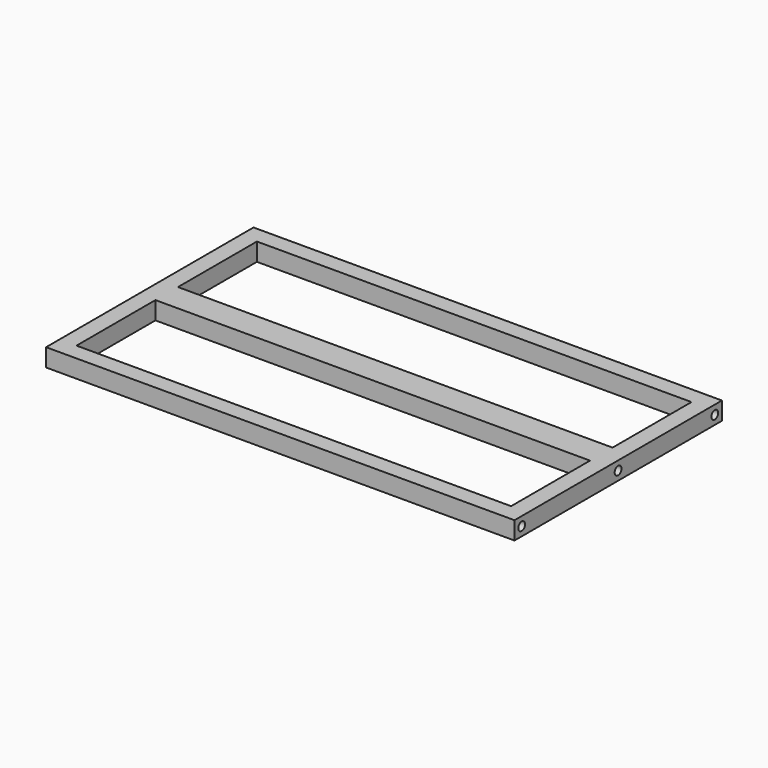
from build123d import *

# Parameters (mm, degrees)
F0_W     = 6
F0_H     = 6
F0_W_2   = 154.2
F0_H_2   = 10
F0_H_3   = 35
F1_DEPTH = 6.35
F3_D     = 3
F3_DEPTH = 10
F3_TIP   = 0.9012909285
F5_D     = 3
F5_DEPTH = 10
F5_TIP   = 0.9012909285


with BuildPart() as f1:
    # F0 (on Top) → F1 (new body)
    with BuildSketch(Plane.XY):
        with Locations((80.1, -43)):
            Rectangle(F0_W, F0_H)
        with Locations((0, -43)):
            Rectangle(F0_W_2, F0_H)
        with Locations((-80.1, -43)):
            Rectangle(F0_W, F0_H)
        with Locations((80.1, 43)):
            Rectangle(F0_W, F0_H)
        with Locations((0, 43)):
            Rectangle(F0_W_2, F0_H)
        with Locations((-80.1, 43)):
            Rectangle(F0_W, F0_H)
        with Locations((80.1, 0)):
            Rectangle(F0_W, F0_H_2)
        Rectangle(F0_W_2, F0_H_2)
        with Locations((-80.1, 0)):
            Rectangle(F0_W, F0_H_2)
        with Locations((-80.1, 22.5)):
            Rectangle(F0_W, F0_H_3)
        with Locations((-80.1, -22.5)):
            Rectangle(F0_W, F0_H_3)
        with Locations((80.1, 22.5)):
            Rectangle(F0_W, F0_H_3)
        with Locations((80.1, -22.5)):
            Rectangle(F0_W, F0_H_3)
    extrude(amount=F1_DEPTH)

    # F3
    with Locations(Plane(origin=(-83.1, 0, 0), x_dir=(0, -1, 0), z_dir=(-1, 0, 0))):
        with Locations((-42.825, 3.175), (0, 3.175), (42.825, 3.175)):
            Hole(F3_D / 2, depth=F3_DEPTH)
            with Locations((0, 0, -(F3_DEPTH + F3_TIP / 2))):  # 118° drill point
                Cone(0, F3_D / 2, F3_TIP, mode=Mode.SUBTRACT)

    # F5
    with Locations(Plane.YZ.offset(83.1)):
        with Locations((-0.0635787927, 3.175), (-42.825, 3.175), (42.825, 3.175)):
            Hole(F5_D / 2, depth=F5_DEPTH)
            with Locations((0, 0, -(F5_DEPTH + F5_TIP / 2))):  # 118° drill point
                Cone(0, F5_D / 2, F5_TIP, mode=Mode.SUBTRACT)


solid = f1.part
